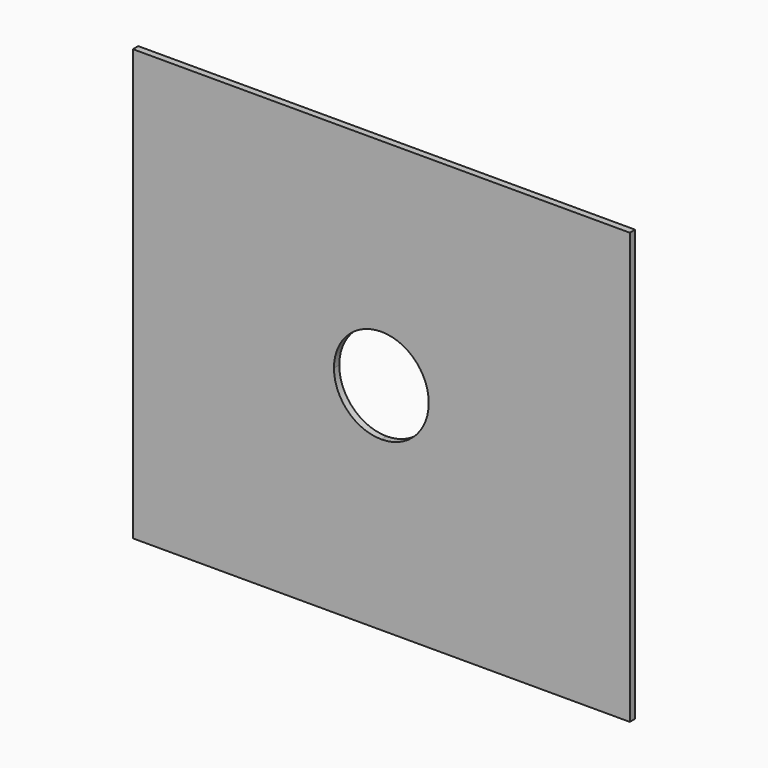
from build123d import *

# Parameters (mm, degrees)
F1_DEPTH = 1


with BuildPart() as f1:
    # F0 (on Front) → F1 (new body)
    with BuildSketch(Plane.XZ):
        with BuildLine():
            Line((0, 32.5), (0, 0))
            Line((0, 0), (37.5, 0))
            Line((37.5, 0), (37.5, 25.347329))
            ThreePointArc((37.5, 25.347329), (32.442298, 27.442298), (30.347329, 32.5))
            Line((30.347329, 32.5), (0, 32.5))
        make_face()
        with BuildLine():
            Line((37.5, 25.347329), (37.5, 0))
            Line((37.5, 0), (75, 0))
            Line((75, 0), (75, 32.5))
            Line((75, 32.5), (44.652671, 32.5))
            ThreePointArc((44.652671, 32.5), (42.557702, 27.442298), (37.5, 25.347329))
        make_face()
        with BuildLine():
            Line((0, 65), (0, 32.5))
            Line((0, 32.5), (30.347329, 32.5))
            ThreePointArc((30.347329, 32.5), (32.442298, 37.557702), (37.5, 39.652671))
            Line((37.5, 39.652671), (37.5, 65))
            Line((37.5, 65), (0, 65))
        make_face()
        with BuildLine():
            Line((44.652671, 32.5), (75, 32.5))
            Line((75, 32.5), (75, 65))
            Line((75, 65), (37.5, 65))
            Line((37.5, 65), (37.5, 39.652671))
            ThreePointArc((37.5, 39.652671), (42.557702, 37.557702), (44.652671, 32.5))
        make_face()
    extrude(amount=F1_DEPTH)


solid = f1.part
